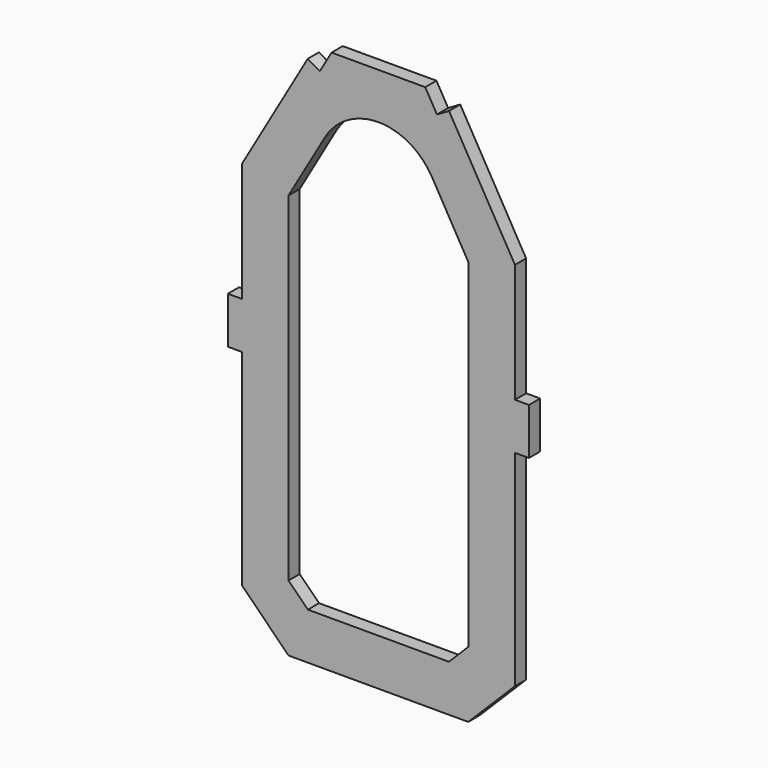
from build123d import *

# Parameters (mm, degrees)
F1_DEPTH = 1.5


with BuildPart() as f1:
    # F0 (on Front) → F1 (new body, symmetric)
    with BuildSketch(Plane.XZ):
        Polygon((-19.25, -59), (19.25, -59), (29.25, -49), (29.25, -5), (32.25, -5), (32.25, 5), (29.25, 5), (29.25, 30.43933), (15.1342262987, 54.8714219789), (12.5366059283, 53.370632716), (10.0352904902, 57.7), (-10.0352904902, 57.7), (-12.5366059283, 53.370632716), (-15.1342262987, 54.8714219789), (-29.25, 30.43933), (-29.25, 5), (-32.25, 5), (-32.25, -5), (-29.25, -5), (-29.25, -49), align=None)
        with BuildLine():
            Line((19.25, 0), (19.25, -44.8578643763))
            Line((19.25, -44.8578643763), (15.1078643763, -49))
            Line((15.1078643763, -49), (-15.1078643763, -49))
            Line((-15.1078643763, -49), (-19.25, -44.8578643763))
            Line((-19.25, -44.8578643763), (-19.25, 0))
            Line((-19.25, 0), (-19.25, 27.7582098748))
            Line((-19.25, 27.7582098748), (-11.4781226068, 41.2100565349))
            ThreePointArc((-11.4781226068, 41.2100565349), (-0.0096357275, 47.8457480828), (11.4684858529, 41.2267361773))
            Line((11.4684858529, 41.2267361773), (19.25, 27.7582098748))
            Line((19.25, 27.7582098748), (19.25, 0))
        make_face(mode=Mode.SUBTRACT)
    extrude(amount=F1_DEPTH, both=True)


solid = f1.part
